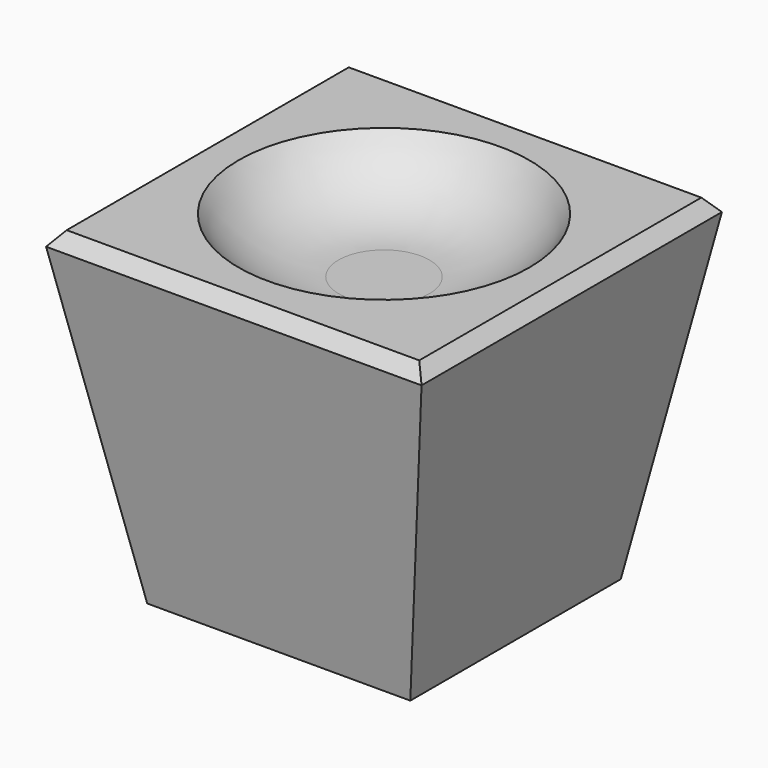
from build123d import *

# Parameters (mm, degrees)
F0_W     = 482.6
F0_H     = 482.6
F1_DEPTH = 609.6
F1_TAPER = -10
F2_SIZE  = 25.4


with BuildPart() as f1:
    # F0 (on Top) → F1 (new body)
    with BuildSketch(Plane.XY):
        Rectangle(F0_W, F0_H)
    extrude(amount=F1_DEPTH, taper=F1_TAPER)

    # F2
    f2_edges = [f1.edges().sort_by_distance(p)[0] for p in [
        (348.788927, 0, 609.6),
        (0, 348.788927, 609.6),
        (-348.788927, 0, 609.6),
        (0, -348.788927, 609.6),
    ]]
    chamfer(f2_edges, length=F2_SIZE)

    # F7 (on 3pt) → F8 (revolve, cut)
    with BuildSketch(Plane(origin=(0, 0, 0), x_dir=(-1, 0, 0), z_dir=(0, 1, 0))):
        with BuildLine():
            Line((-83.472505641, 508), (0, 508))
            Line((0, 508), (0, 609.6))
            Line((0, 609.6), (-266.7, 609.6))
            ThreePointArc((-266.7, 609.6), (-188.2280242177, 535.0998637348), (-83.472505641, 508))
        make_face()
    revolve(axis=Axis((0, 0, 445.9715634584), (0, 0, -1)), mode=Mode.SUBTRACT)


solid = f1.part
